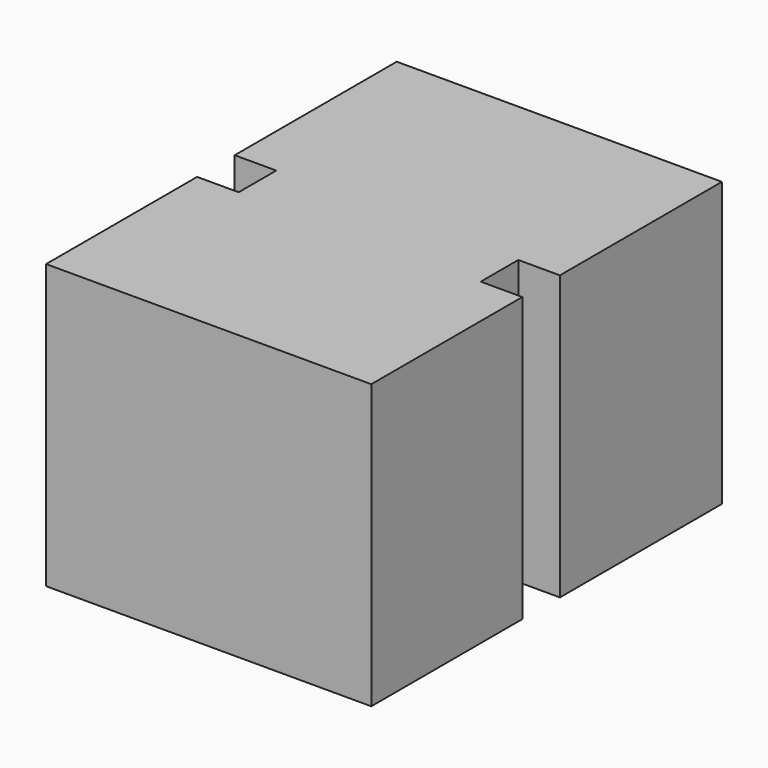
from build123d import *

# Parameters (mm, degrees)
F1_DEPTH = 50.8


with BuildPart() as f1:
    # F0 (on Top) → F1 (new body)
    with BuildSketch(Plane.XY):
        Polygon((28.560538, 36.279652), (-29.697197, 36.279652), (-29.697197, 0), (-22.248769, 0), (-22.248769, -8.414599), (-29.697197, -8.414599), (-29.697197, -42.233742), (28.560538, -42.233742), (28.560538, -8.414599), (21.107808, -8.414599), (21.107808, 0), (28.560538, 0), align=None)
        with BuildLine():
            ThreePointArc((5, -34.56944), (-3.535534, -38.104974), (0, -29.56944))
            ThreePointArc((0, -29.56944), (3.535534, -31.033906), (5, -34.56944))
        make_face(mode=Mode.SUBTRACT)
        with BuildLine():
            ThreePointArc((0, -29.56944), (-10, -19.56944), (0, -9.56944))
            ThreePointArc((0, -9.56944), (7.071068, -12.498372), (10, -19.56944))
            ThreePointArc((10, -19.56944), (7.071068, -26.640507), (0, -29.56944))
        make_face(mode=Mode.SUBTRACT)
        with BuildLine():
            ThreePointArc((0, -9.56944), (-14.495689, 25.426249), (20.5, 10.93056))
            ThreePointArc((20.5, 10.93056), (14.495689, -3.565129), (0, -9.56944))
        make_face(mode=Mode.SUBTRACT)
        with BuildLine():
            ThreePointArc((0, -9.56944), (14.495689, -3.565129), (20.5, 10.93056))
            ThreePointArc((20.5, 10.93056), (-14.495689, 25.426249), (0, -9.56944))
        make_face()
        with BuildLine():
            ThreePointArc((10, -19.56944), (7.071068, -12.498372), (0, -9.56944))
            ThreePointArc((0, -9.56944), (-10, -19.56944), (0, -29.56944))
            ThreePointArc((0, -29.56944), (7.071068, -26.640507), (10, -19.56944))
        make_face()
        with BuildLine():
            ThreePointArc((5, -34.56944), (3.535534, -31.033906), (0, -29.56944))
            ThreePointArc((0, -29.56944), (-3.535534, -38.104974), (5, -34.56944))
        make_face()
    extrude(amount=-F1_DEPTH)


solid = f1.part
